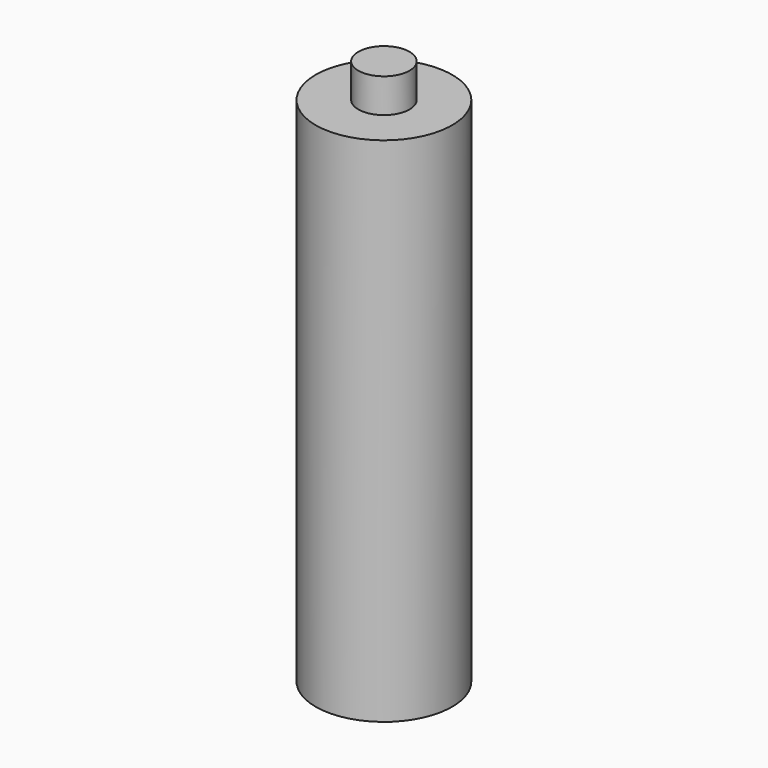
from build123d import *

# Parameters (mm, degrees)
F0_W = 3.81
F0_H = 5.08


with BuildPart() as f1:
    # F0 (on Front) → F1 (revolve)
    with BuildSketch(Plane.XZ):
        Polygon((-3.81, 35.136227), (-10.16, 35.136227), (-10.16, -41.063773), (0, -41.063773), (0, 35.136227), align=None)
        with Locations((-1.905, 37.676227)):
            Rectangle(F0_W, F0_H)
    revolve(axis=Axis((0, 0, 37.676227), (0, 0, -1)))


solid = f1.part
